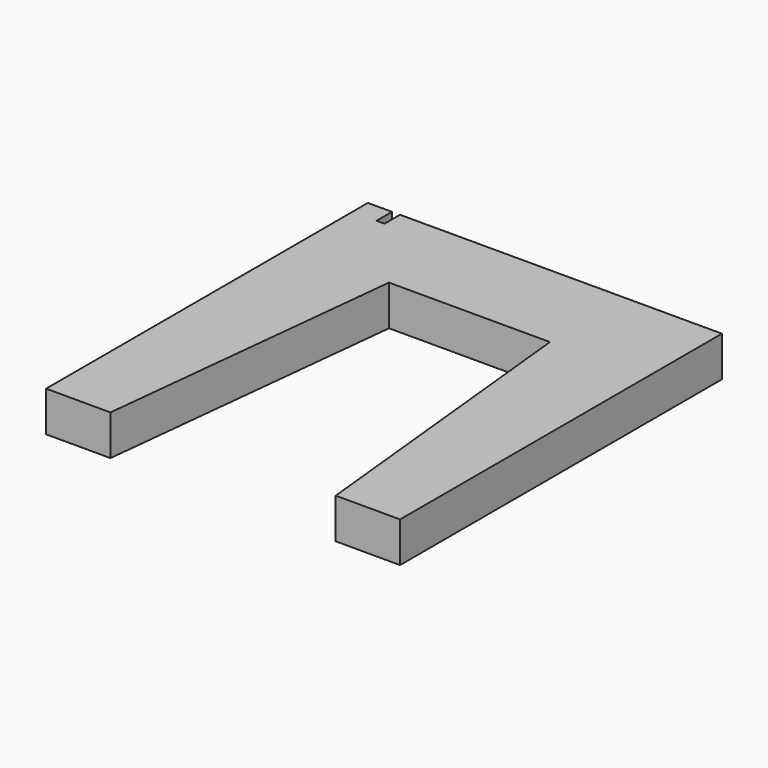
from build123d import *

# Parameters (mm, degrees)
F1_DEPTH = 25
F2_W     = 4.965493
F2_H     = 6.25
F3_DEPTH = 12
F4_W     = 10
F4_H     = 20
F5_DEPTH = 10


with BuildPart() as f1:
    # F0 (on Top) → F1 (new body)
    with BuildSketch(Plane.XY):
        Polygon((110, -125), (110, 125), (-110, 125), (-110, -125), (-70, -125), (-49.67048, 65.990649), (50.32952, 65.990649), (70, -125), align=None)
    extrude(amount=F1_DEPTH)

    # F2 (on face) → F3 (cut)
    with BuildSketch(Plane(origin=(0, 125, 0), x_dir=(-1, 0, 0), z_dir=(0, 1, 0))):
        with Locations((92.517253, 21.875)):
            Rectangle(F2_W, F2_H)
    extrude(amount=-F3_DEPTH, mode=Mode.SUBTRACT)

    # F4 (on face) → F5 (cut)
    with BuildSketch(Plane(origin=(0, 0, 0), x_dir=(1, 0, 0), z_dir=(0, 0, -1))):
        with Locations((-90, 25)):
            Rectangle(F4_W, F4_H)
        with Locations((90, 25)):
            Rectangle(F4_W, F4_H)
    extrude(amount=-F5_DEPTH, mode=Mode.SUBTRACT)


solid = f1.part
